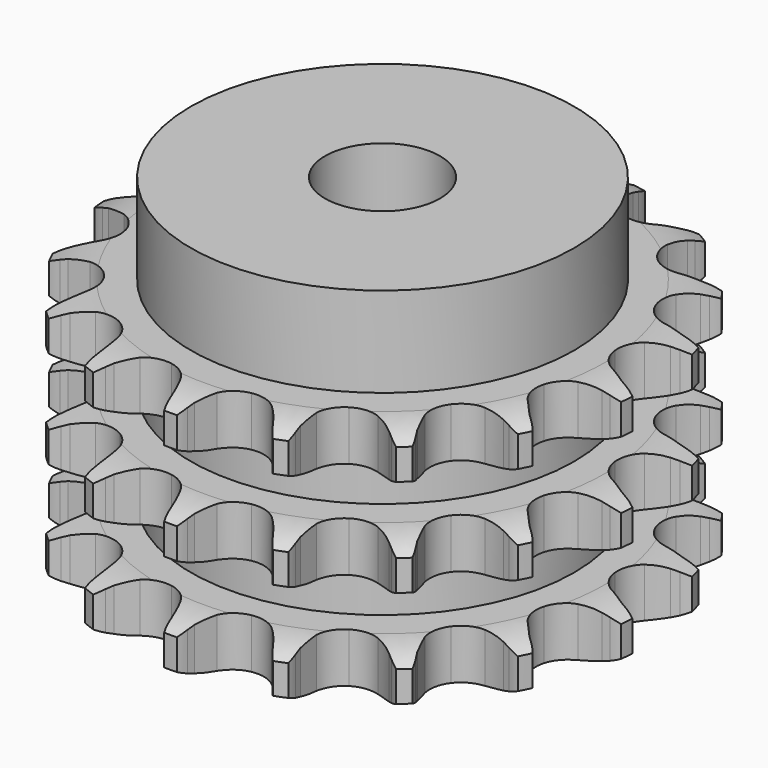
from build123d import *

# Parameters (mm, degrees)
PAD_DEPTH         = 25.6
SKETCH001_R       = 20
PAD001_DEPTH      = 35
SKETCH002_R       = 6
POCKET_DEPTH      = 0.001
POCKET_DEPTH_BACK = 35.001


with BuildPart() as part:
    # Sprocket → Pad (new body)
    with BuildSketch(Plane.XY):
        with BuildLine():
            ThreePointArc((-5.280087, 28.245969), (-4.503345, 27.401621), (-3.928208, 26.408912))
            Line((-3.928208, 26.408912), (-3.626974, 25.726681))
            ThreePointArc((-3.626974, 25.726681), (-3.134942, 24.781496), (-2.52599, 23.907054))
            ThreePointArc((-2.52599, 23.907054), (-1.402066, 23.009743), (0, 22.68946))
            ThreePointArc((0, 22.68946), (1.402066, 23.009743), (2.52599, 23.907054))
            ThreePointArc((2.52599, 23.907054), (3.134942, 24.781496), (3.626974, 25.726681))
            Line((3.626974, 25.726681), (3.928208, 26.408912))
            ThreePointArc((3.928208, 26.408912), (4.503345, 27.401621), (5.280087, 28.245969))
            ThreePointArc((5.280087, 28.245969), (5.699363, 27.178046), (5.877054, 26.044609))
            Line((5.877054, 26.044609), (5.911497, 25.299629))
            ThreePointArc((5.911497, 25.299629), (6.028863, 24.240528), (6.280809, 23.205157))
            ThreePointArc((6.280809, 23.205157), (7.00469, 21.962431), (8.196378, 21.157292))
            ThreePointArc((8.196378, 21.157292), (9.619466, 20.949462), (10.99164, 21.380171))
            Line((10.99164, 21.380171), (12.675601, 22.679201))
            ThreePointArc((12.675601, 22.679201), (12.933353, 22.948792), (13.202944, 23.206544))
            ThreePointArc((13.202944, 23.206544), (14.097851, 23.924454), (15.127155, 24.431195))
            ThreePointArc((15.127155, 24.431195), (15.13234, 23.283926), (14.888588, 22.162838))
            Line((14.888588, 22.162838), (14.651587, 21.455723))
            ThreePointArc((14.651587, 21.455723), (14.378436, 20.425743), (14.239349, 19.369275))
            ThreePointArc((14.239349, 19.369275), (14.465424, 17.948971), (15.285791, 16.767714))
            ThreePointArc((15.285791, 16.767714), (16.537703, 16.059839), (17.972807, 15.965778))
            Line((17.972807, 15.965778), (20.012319, 16.56877))
            ThreePointArc((20.012319, 16.56877), (20.350053, 16.727045), (20.69455, 16.870004))
            ThreePointArc((20.69455, 16.870004), (21.788364, 17.216158), (22.931218, 17.316852))
            ThreePointArc((22.931218, 17.316852), (22.521611, 16.245182), (21.889335, 15.287853))
            Line((21.889335, 15.287853), (21.412899, 14.714102))
            ThreePointArc((21.412899, 14.714102), (20.786121, 13.852348), (20.274787, 12.917465))
            ThreePointArc((20.274787, 12.917465), (19.972523, 11.511403), (20.310772, 10.113563))
            ThreePointArc((20.310772, 10.113563), (21.222432, 9.001247), (22.526648, 8.395118))
            Line((22.526648, 8.395118), (24.646261, 8.220634))
            ThreePointArc((24.646261, 8.220634), (25.018365, 8.246218), (25.391241, 8.255077))
            ThreePointArc((25.391241, 8.255077), (26.536238, 8.182724), (27.638292, 7.863772))
            ThreePointArc((27.638292, 7.863772), (26.869214, 7.012437), (25.933806, 6.348158))
            Line((25.933806, 6.348158), (25.28228, 5.98526))
            ThreePointArc((25.28228, 5.98526), (24.386526, 5.408117), (23.572002, 4.721079))
            ThreePointArc((23.572002, 4.721079), (22.782221, 3.519157), (22.592671, 2.093519))
            ThreePointArc((22.592671, 2.093519), (23.040954, 0.726986), (24.03814, -0.30935))
            Line((24.03814, -0.30935), (25.95159, -1.237743))
            ThreePointArc((25.95159, -1.237743), (26.307808, -1.348306), (26.658705, -1.474744))
            ThreePointArc((26.658705, -1.474744), (27.700246, -1.955832), (28.612662, -2.651354))
            ThreePointArc((28.612662, -2.651354), (27.58798, -3.167377), (26.475774, -3.44889))
            Line((26.475774, -3.44889), (25.73715, -3.551924))
            ThreePointArc((25.73715, -3.551924), (24.693396, -3.766511), (23.685688, -4.112914))
            ThreePointArc((23.685688, -4.112914), (22.515055, -4.948372), (21.823305, -6.209266))
            ThreePointArc((21.823305, -6.209266), (21.747667, -7.645459), (22.303148, -8.972038))
            Line((22.303148, -8.972038), (23.752013, -10.528957))
            ThreePointArc((23.752013, -10.528957), (24.044236, -10.760735), (24.325763, -11.005393))
            ThreePointArc((24.325763, -11.005393), (25.123182, -11.830242), (25.722733, -12.808399))
            ThreePointArc((25.722733, -12.808399), (24.580837, -12.919419), (23.442041, -12.780147))
            Line((23.442041, -12.780147), (22.716074, -12.609401))
            ThreePointArc((22.716074, -12.609401), (21.665285, -12.43245), (20.60049, -12.391435))
            ThreePointArc((20.60049, -12.391435), (19.207105, -12.747595), (18.10658, -13.673455))
            ThreePointArc((18.10658, -13.673455), (17.517238, -14.985341), (17.555992, -16.423002))
            Line((17.555992, -16.423002), (18.344594, -18.398176))
            ThreePointArc((18.344594, -18.398176), (18.533357, -18.719866), (18.707492, -19.049703))
            ThreePointArc((18.707492, -19.049703), (19.153094, -20.106912), (19.358807, -21.2356))
            ThreePointArc((19.358807, -21.2356), (18.253915, -20.926622), (17.24233, -20.385374))
            Line((17.24233, -20.385374), (16.627067, -19.963909))
            ThreePointArc((16.627067, -19.963909), (15.711158, -19.419318), (14.733082, -18.996425))
            ThreePointArc((14.733082, -18.996425), (13.30513, -18.825185), (11.944462, -19.290968))
            ThreePointArc((11.944462, -19.290968), (10.921008, -20.301371), (10.437802, -21.65595))
            Line((10.437802, -21.65595), (10.459637, -23.78262))
            ThreePointArc((10.459637, -23.78262), (10.519445, -24.150776), (10.56267, -24.521244))
            ThreePointArc((10.56267, -24.521244), (10.596273, -25.668033), (10.380367, -26.794815))
            ThreePointArc((10.380367, -26.794815), (9.461701, -26.107568), (8.713948, -25.237443))
            Line((8.713948, -25.237443), (8.292483, -24.62218))
            ThreePointArc((8.292483, -24.62218), (7.635151, -23.7835), (6.87589, -23.035842))
            ThreePointArc((6.87589, -23.035842), (5.606223, -22.36033), (4.169177, -22.303129))
            ThreePointArc((4.169177, -22.303129), (2.849836, -22.875588), (1.909929, -23.964141))
            Line((1.909929, -23.964141), (1.162047, -25.95509))
            ThreePointArc((1.162047, -25.95509), (1.084824, -26.319989), (0.991302, -26.681056))
            ThreePointArc((0.991302, -26.681056), (0.608368, -27.762543), (0, -28.735242))
            ThreePointArc((0, -28.735242), (-0.608368, -27.762543), (-0.991302, -26.681056))
            Line((-0.991302, -26.681056), (-1.162047, -25.95509))
            ThreePointArc((-1.162047, -25.95509), (-1.472025, -24.935588), (-1.909929, -23.964141))
            ThreePointArc((-1.909929, -23.964141), (-2.849836, -22.875588), (-4.169177, -22.303129))
            ThreePointArc((-4.169177, -22.303129), (-5.606223, -22.36033), (-6.87589, -23.035842))
            Line((-6.87589, -23.035842), (-8.292483, -24.62218))
            ThreePointArc((-8.292483, -24.62218), (-8.496309, -24.934543), (-8.713948, -25.237443))
            ThreePointArc((-8.713948, -25.237443), (-9.461701, -26.107568), (-10.380367, -26.794815))
            ThreePointArc((-10.380367, -26.794815), (-10.596273, -25.668033), (-10.56267, -24.521244))
            Line((-10.56267, -24.521244), (-10.459637, -23.78262))
            ThreePointArc((-10.459637, -23.78262), (-10.380395, -22.719986), (-10.437802, -21.65595))
            ThreePointArc((-10.437802, -21.65595), (-10.921008, -20.301371), (-11.944462, -19.290968))
            ThreePointArc((-11.944462, -19.290968), (-13.30513, -18.825185), (-14.733082, -18.996425))
            Line((-14.733082, -18.996425), (-16.627067, -19.963909))
            ThreePointArc((-16.627067, -19.963909), (-16.929968, -20.181548), (-17.24233, -20.385374))
            ThreePointArc((-17.24233, -20.385374), (-18.253915, -20.926622), (-19.358807, -21.2356))
            ThreePointArc((-19.358807, -21.2356), (-19.153094, -20.106912), (-18.707492, -19.049703))
            Line((-18.707492, -19.049703), (-18.344594, -18.398176))
            ThreePointArc((-18.344594, -18.398176), (-17.886836, -17.435925), (-17.555992, -16.423002))
            ThreePointArc((-17.555992, -16.423002), (-17.517238, -14.985341), (-18.10658, -13.673455))
            ThreePointArc((-18.10658, -13.673455), (-19.207105, -12.747595), (-20.60049, -12.391435))
            Line((-20.60049, -12.391435), (-22.716074, -12.609401))
            ThreePointArc((-22.716074, -12.609401), (-23.077141, -12.702923), (-23.442041, -12.780147))
            ThreePointArc((-23.442041, -12.780147), (-24.580837, -12.919419), (-25.722733, -12.808399))
            ThreePointArc((-25.722733, -12.808399), (-25.123182, -11.830242), (-24.325763, -11.005393))
            Line((-24.325763, -11.005393), (-23.752013, -10.528957))
            ThreePointArc((-23.752013, -10.528957), (-22.977561, -9.797046), (-22.303148, -8.972038))
            ThreePointArc((-22.303148, -8.972038), (-21.747667, -7.645459), (-21.823305, -6.209266))
            ThreePointArc((-21.823305, -6.209266), (-22.515055, -4.948372), (-23.685688, -4.112914))
            Line((-23.685688, -4.112914), (-25.73715, -3.551924))
            ThreePointArc((-25.73715, -3.551924), (-26.107618, -3.508698), (-26.475774, -3.44889))
            ThreePointArc((-26.475774, -3.44889), (-27.58798, -3.167377), (-28.612662, -2.651354))
            ThreePointArc((-28.612662, -2.651354), (-27.700246, -1.955832), (-26.658705, -1.474744))
            Line((-26.658705, -1.474744), (-25.95159, -1.237743))
            ThreePointArc((-25.95159, -1.237743), (-24.965038, -0.835021), (-24.03814, -0.30935))
            ThreePointArc((-24.03814, -0.30935), (-23.040954, 0.726986), (-22.592671, 2.093519))
            ThreePointArc((-22.592671, 2.093519), (-22.782221, 3.519157), (-23.572002, 4.721079))
            Line((-23.572002, 4.721079), (-25.28228, 5.98526))
            ThreePointArc((-25.28228, 5.98526), (-25.612117, 6.159396), (-25.933806, 6.348158))
            ThreePointArc((-25.933806, 6.348158), (-26.869214, 7.012437), (-27.638292, 7.863772))
            ThreePointArc((-27.638292, 7.863772), (-26.536238, 8.182724), (-25.391241, 8.255077))
            Line((-25.391241, 8.255077), (-24.646261, 8.220634))
            ThreePointArc((-24.646261, 8.220634), (-23.580849, 8.239778), (-22.526648, 8.395118))
            ThreePointArc((-22.526648, 8.395118), (-21.222432, 9.001247), (-20.310772, 10.113563))
            ThreePointArc((-20.310772, 10.113563), (-19.972523, 11.511403), (-20.274787, 12.917465))
            Line((-20.274787, 12.917465), (-21.412899, 14.714102))
            ThreePointArc((-21.412899, 14.714102), (-21.657557, 14.995629), (-21.889335, 15.287853))
            ThreePointArc((-21.889335, 15.287853), (-22.521611, 16.245182), (-22.931218, 17.316852))
            ThreePointArc((-22.931218, 17.316852), (-21.788364, 17.216158), (-20.69455, 16.870004))
            Line((-20.69455, 16.870004), (-20.012319, 16.56877))
            ThreePointArc((-20.012319, 16.56877), (-19.011936, 16.20175), (-17.972807, 15.965778))
            ThreePointArc((-17.972807, 15.965778), (-16.537703, 16.059839), (-15.285791, 16.767714))
            ThreePointArc((-15.285791, 16.767714), (-14.465424, 17.948971), (-14.239349, 19.369275))
            Line((-14.239349, 19.369275), (-14.651587, 21.455723))
            ThreePointArc((-14.651587, 21.455723), (-14.778025, 21.80662), (-14.888588, 22.162838))
            ThreePointArc((-14.888588, 22.162838), (-15.13234, 23.283926), (-15.127155, 24.431195))
            ThreePointArc((-15.127155, 24.431195), (-14.097851, 23.924454), (-13.202944, 23.206544))
            Line((-13.202944, 23.206544), (-12.675601, 22.679201))
            ThreePointArc((-12.675601, 22.679201), (-11.875355, 21.975585), (-10.99164, 21.380171))
            ThreePointArc((-10.99164, 21.380171), (-9.619466, 20.949462), (-8.196378, 21.157292))
            ThreePointArc((-8.196378, 21.157292), (-7.00469, 21.962431), (-6.280809, 23.205157))
            Line((-6.280809, 23.205157), (-5.911497, 25.299629))
            ThreePointArc((-5.911497, 25.299629), (-5.902638, 25.672506), (-5.877054, 26.044609))
            ThreePointArc((-5.877054, 26.044609), (-5.699363, 27.178046), (-5.280087, 28.245969))
        make_face()
    extrude(amount=PAD_DEPTH)

    # Sketch → Groove (revolve, cut)
    with BuildSketch(Plane.XZ):
        with BuildLine():
            ThreePointArc((23.291101, 0), (25.527169, 0.253206), (27.65, 1))
            Line((27.65, 1), (27.65, 4.2))
            ThreePointArc((27.65, 4.2), (25.527169, 4.946794), (23.291101, 5.2))
            Line((20, 5.2), (23.291101, 5.2))
            Line((20, 5.2), (20, 10.2))
            Line((20, 10.2), (23.291101, 10.2))
            ThreePointArc((23.291101, 10.2), (25.527169, 10.453206), (27.65, 11.2))
            Line((27.65, 14.4), (27.65, 11.2))
            ThreePointArc((27.65, 14.4), (25.527169, 15.146794), (23.291101, 15.4))
            Line((20, 15.4), (23.291101, 15.4))
            Line((20, 20.4), (20, 15.4))
            Line((23.291101, 20.4), (20, 20.4))
            ThreePointArc((23.291101, 20.4), (25.527169, 20.653206), (27.65, 21.4))
            Line((27.65, 21.4), (27.65, 24.6))
            ThreePointArc((27.65, 24.6), (25.527169, 25.346794), (23.291101, 25.6))
            Line((23.291101, 25.6), (37.65, 25.6))
            Line((37.65, 25.6), (37.65, 0))
            Line((23.291101, 0), (37.65, 0))
        make_face()
    revolve(axis=Axis((0, 0, 0), (0, 0, 1)), mode=Mode.SUBTRACT)

    # Sketch001 → Pad001 (join)
    with BuildSketch(Plane.XY):
        Circle(SKETCH001_R)
    extrude(amount=PAD001_DEPTH)

    # Sketch002 → Pocket (cut, two sides)
    with BuildSketch(Plane.XY) as pocket_sk:
        Circle(SKETCH002_R)
    extrude(amount=-POCKET_DEPTH, mode=Mode.SUBTRACT)
    extrude(pocket_sk.sketch, amount=POCKET_DEPTH_BACK, mode=Mode.SUBTRACT)


solid = part.part
